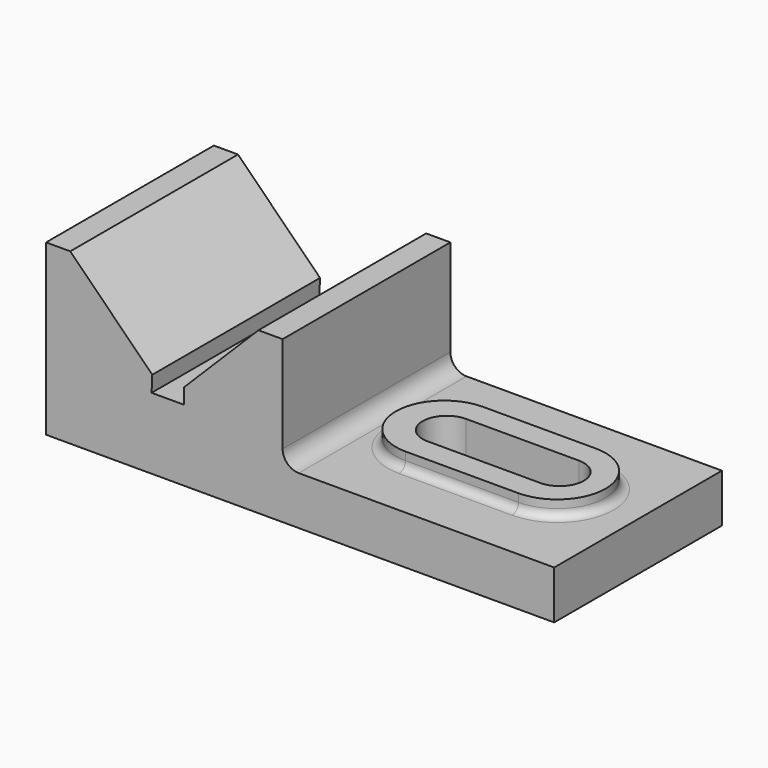
from build123d import *

# Parameters (mm, degrees)
F1_DEPTH = 82.55
F3_DEPTH = 25.4
F5_DEPTH = 66.676
F6_R     = 3.175
F7_R     = 6.35


with BuildPart() as f1:
    # F0 (on Front) → F1 (new body)
    with BuildSketch(Plane.XZ):
        Polygon((0, 66.675), (0, 0), (200.025, 0), (200.025, 19.05), (93.121408, 19.05), (93.121408, 63.413289), (83.596408, 63.413289), (54.240717, 34.057599), (54.240717, 28.052471), (41.540717, 28.052471), (41.802945, 34.397055), (9.525, 66.675), align=None)
    extrude(amount=F1_DEPTH)

    # F2 (on Top) → F3 (join)
    with BuildSketch(Plane.XY):
        with BuildLine():
            Line((168.175783, -22.225), (123.725783, -22.225))
            ThreePointArc((123.725783, -22.225), (104.675783, -41.275), (123.725783, -60.325))
            Line((123.725783, -60.325), (168.175783, -60.325))
            ThreePointArc((168.175783, -60.325), (187.225783, -41.275), (168.175783, -22.225))
        make_face()
    extrude(amount=F3_DEPTH)

    # F4 (on Top) → F5 (cut, through all)
    with BuildSketch(Plane.XY):
        with BuildLine():
            ThreePointArc((124.727895, -31.75), (115.202895, -41.275), (124.727895, -50.8))
            Line((124.727895, -50.8), (169.177895, -50.8))
            ThreePointArc((169.177895, -50.8), (178.702895, -41.275), (169.177895, -31.75))
            Line((169.177895, -31.75), (124.727895, -31.75))
        make_face()
    extrude(amount=F5_DEPTH, mode=Mode.SUBTRACT)

    # F6
    f6_edges = [f1.edges().sort_by_distance(p)[0] for p in [
        (145.950783, -60.325, 19.05),
    ]]
    fillet(f6_edges, radius=F6_R)

    # F7
    f7_edges = [f1.edges().sort_by_distance(p)[0] for p in [
        (93.121408, -41.275, 19.05),
    ]]
    fillet(f7_edges, radius=F7_R)


solid = f1.part
